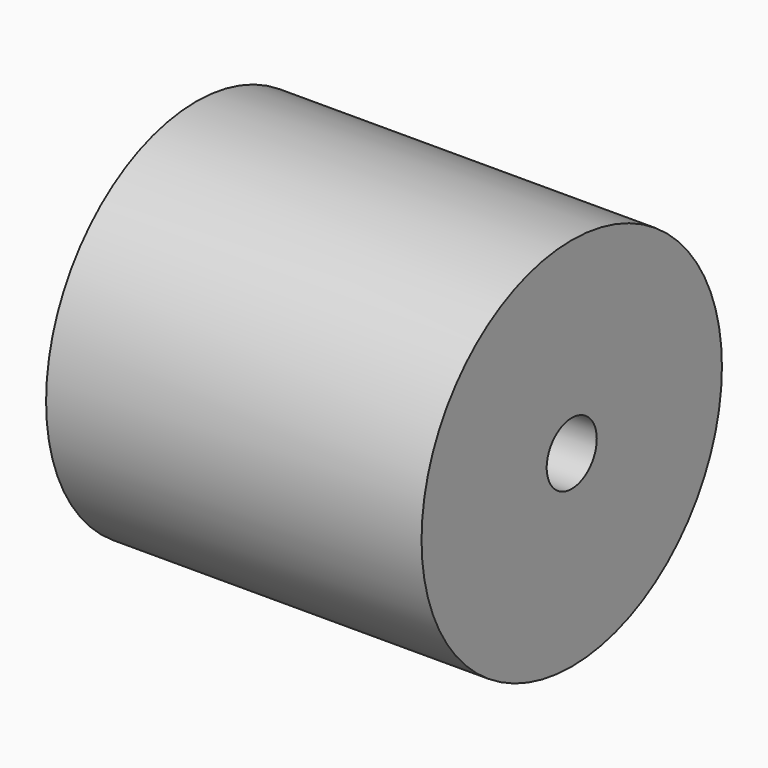
from build123d import *

# Parameters (mm, degrees)
F0_R     = 3
F1_DEPTH = 6
F2_T     = -2.5


with BuildPart() as f1:
    # F0 (on Right) → F1 (new body)
    with BuildSketch(Plane.YZ):
        with Locations((-6.658404, 10.697108)):
            Circle(F0_R)
    extrude(amount=F1_DEPTH)

    # F2
    f2_openings = [f1.faces().sort_by_distance(p)[0] for p in [
        (6, -6.658404, 10.697108),
    ]]
    offset(amount=F2_T, openings=f2_openings)


solid = f1.part
